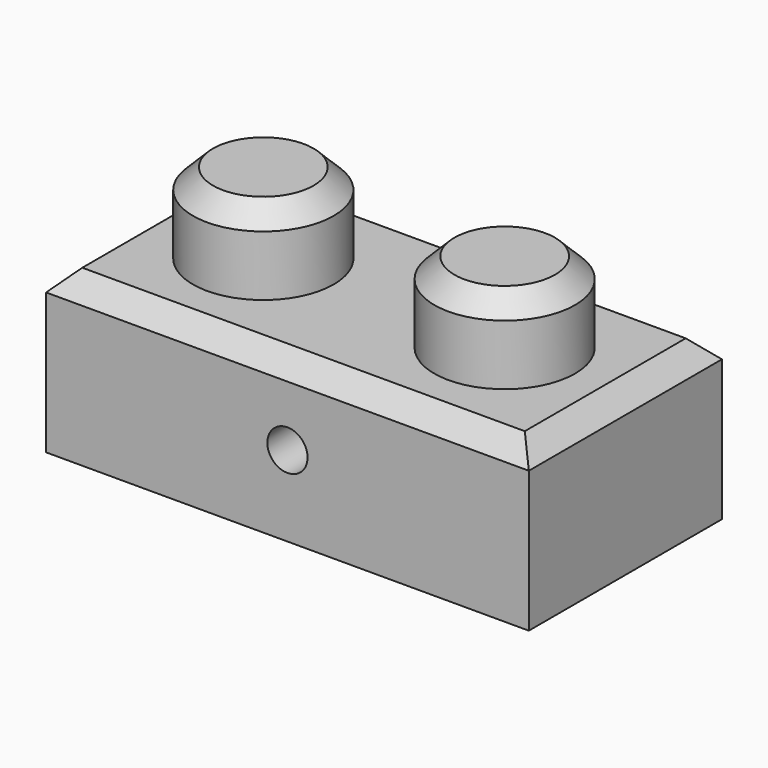
from build123d import *

# Parameters (mm, degrees)
F0_W     = 76.2
F0_H     = 38.1
F1_DEPTH = 25.4
F2_R     = 11.1125
F3_DEPTH = 12.7
F4_T     = -7.9375
F5_R     = 3.175
F6_DEPTH = 38.1
F7_SIZE2 = 3.175
F7_SIZE  = 3.175


with BuildPart() as f1:
    # F0 (on Top) → F1 (new body)
    with BuildSketch(Plane.XY):
        with Locations((38.1, 19.05)):
            Rectangle(F0_W, F0_H)
    extrude(amount=F1_DEPTH)

    # F2 (on face) → F3 (join)
    with BuildSketch(Plane.XY.offset(25.4)):
        with Locations((19.05, 19.05)):
            Circle(F2_R)
        with Locations((57.15, 19.05)):
            Circle(F2_R)
    extrude(amount=F3_DEPTH)

    # F4
    f4_openings = [f1.faces().sort_by_distance(p)[0] for p in [
        (38.1, 19.05, 0),
    ]]
    offset(amount=F4_T, openings=f4_openings, kind=Kind.INTERSECTION)

    # F5 (on face) → F6 (cut)
    with BuildSketch(Plane.XZ):
        with Locations((38.1, 12.7)):
            Circle(F5_R)
    extrude(amount=-F6_DEPTH, mode=Mode.SUBTRACT)

    # F7
    f7_edges = [f1.edges().sort_by_distance(p)[0] for p in [
        (7.9375, 19.05, 38.1),
        (46.0375, 19.05, 38.1),
        (38.1, 0, 25.4),
        (0, 19.05, 25.4),
        (38.1, 38.1, 25.4),
        (76.2, 19.05, 25.4),
    ]]
    chamfer(f7_edges, length=F7_SIZE, length2=F7_SIZE2)


solid = f1.part
